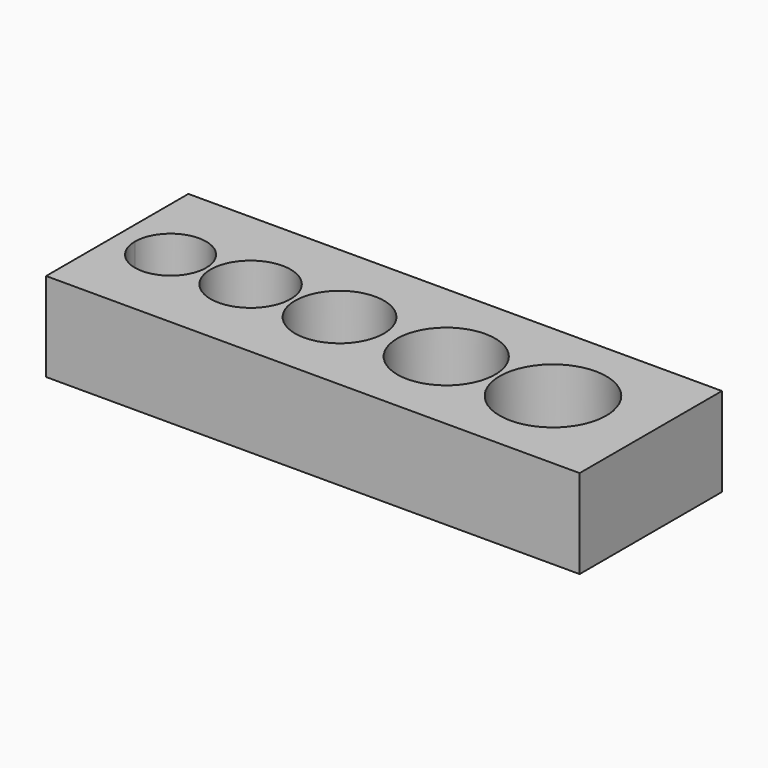
from build123d import *

# Parameters (mm, degrees)
F1_DEPTH = 5


with BuildPart() as f1:
    # F0 (on Top) → F1 (new body)
    with BuildSketch(Plane.XY):
        with BuildLine():
            Line((0, 10), (0, 5))
            Line((0, 5), (1, 5))
            ThreePointArc((1, 5), (3, 7), (5, 5))
            ThreePointArc((5, 5), (4.414214, 3.585786), (3, 3))
            Line((3, 3), (3, 0))
            Line((3, 0), (30, 0))
            Line((30, 0), (30, 10))
            Line((30, 10), (0, 10))
        make_face()
        with BuildLine():
            ThreePointArc((9.75, 5), (7.5, 2.75), (5.25, 5))
            ThreePointArc((5.25, 5), (7.5, 7.25), (9.75, 5))
        make_face(mode=Mode.SUBTRACT)
        with BuildLine():
            ThreePointArc((15, 5), (12.5, 2.5), (10, 5))
            ThreePointArc((10, 5), (12.5, 7.5), (15, 5))
        make_face(mode=Mode.SUBTRACT)
        with BuildLine():
            ThreePointArc((21.25, 5), (18.5, 2.25), (15.75, 5))
            ThreePointArc((15.75, 5), (18.5, 7.75), (21.25, 5))
        make_face(mode=Mode.SUBTRACT)
        with BuildLine():
            ThreePointArc((27.5, 5), (24.5, 2), (21.5, 5))
            ThreePointArc((21.5, 5), (24.5, 8), (27.5, 5))
        make_face(mode=Mode.SUBTRACT)
        with BuildLine():
            Line((0, 5), (0, 0))
            Line((0, 0), (3, 0))
            Line((3, 0), (3, 3))
            ThreePointArc((3, 3), (1.585786, 3.585786), (1, 5))
            Line((1, 5), (0, 5))
        make_face()
    extrude(amount=F1_DEPTH)


solid = f1.part
